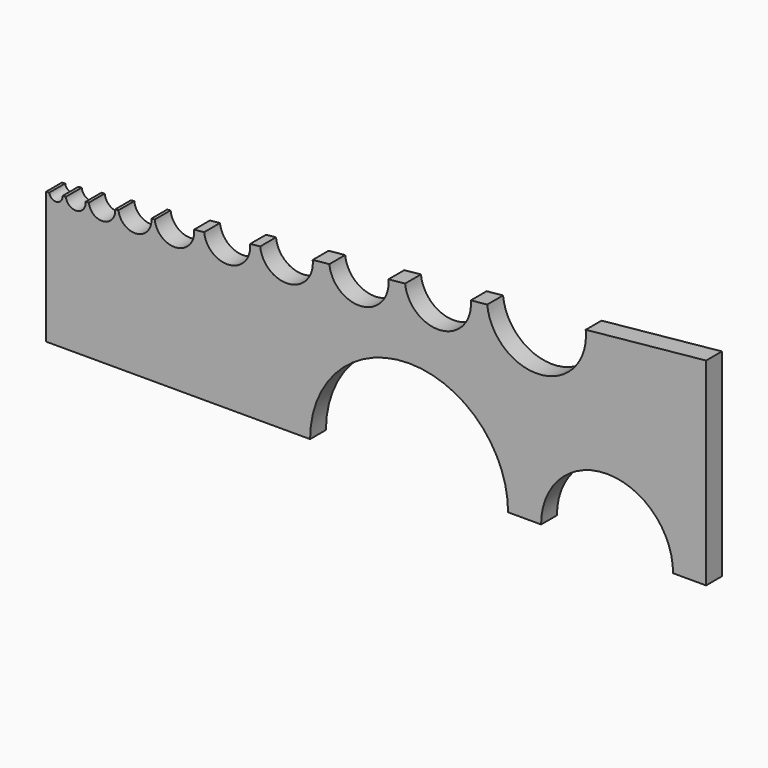
from build123d import *

# Parameters (mm, degrees)
F1_DEPTH = 3


with BuildPart() as f1:
    # F0 (on Front) → F1 (new body)
    with BuildSketch(Plane.XZ):
        with BuildLine():
            Line((0, 20), (0, 0))
            Line((0, 0), (40, 0))
            ThreePointArc((40, 0), (55, 15), (70, 0))
            Line((70, 0), (75, 0))
            ThreePointArc((75, 0), (85, 10), (95, 0))
            Line((95, 0), (100, 0))
            Line((100, 0), (100, 30))
            Line((100, 30), (81.764267, 28.176427))
            ThreePointArc((81.764267, 28.176427), (75.047766, 19.96737), (66.838709, 26.683871))
            Line((66.838709, 26.683871), (64.351116, 26.435112))
            ThreePointArc((64.351116, 26.435112), (59.873448, 20.962407), (54.400744, 25.440074))
            Line((54.400744, 25.440074), (51.87593, 25.187593))
            ThreePointArc((51.87593, 25.187593), (47.846029, 20.262159), (42.920595, 24.29206))
            Line((42.920595, 24.29206), (40.398262, 24.039826))
            ThreePointArc((40.398262, 24.039826), (36.816129, 19.661663), (32.437965, 23.243796))
            Line((32.437965, 23.243796), (30.918114, 23.091811))
            ThreePointArc((30.918114, 23.091811), (27.783746, 19.260918), (23.952853, 22.395285))
            Line((23.952853, 22.395285), (22.435483, 22.243548))
            ThreePointArc((22.435483, 22.243548), (19.748883, 18.959926), (16.46526, 21.646526))
            Line((16.46526, 21.646526), (15.950372, 21.595037))
            ThreePointArc((15.950372, 21.595037), (13.711538, 18.858685), (10.975186, 21.097519))
            Line((10.975186, 21.097519), (10.462779, 21.046278))
            ThreePointArc((10.462779, 21.046278), (8.671712, 18.857196), (6.48263, 20.648263))
            Line((6.48263, 20.648263), (5.985112, 20.598511))
            ThreePointArc((5.985112, 20.598511), (4.641811, 18.9567), (3, 20.3))
            Line((3, 20.3), (2.487593, 20.248759))
            ThreePointArc((2.487593, 20.248759), (1.59206, 19.154218), (0.497519, 20.049752))
            Line((0.497519, 20.049752), (0, 20))
        make_face()
    extrude(amount=F1_DEPTH)


solid = f1.part
